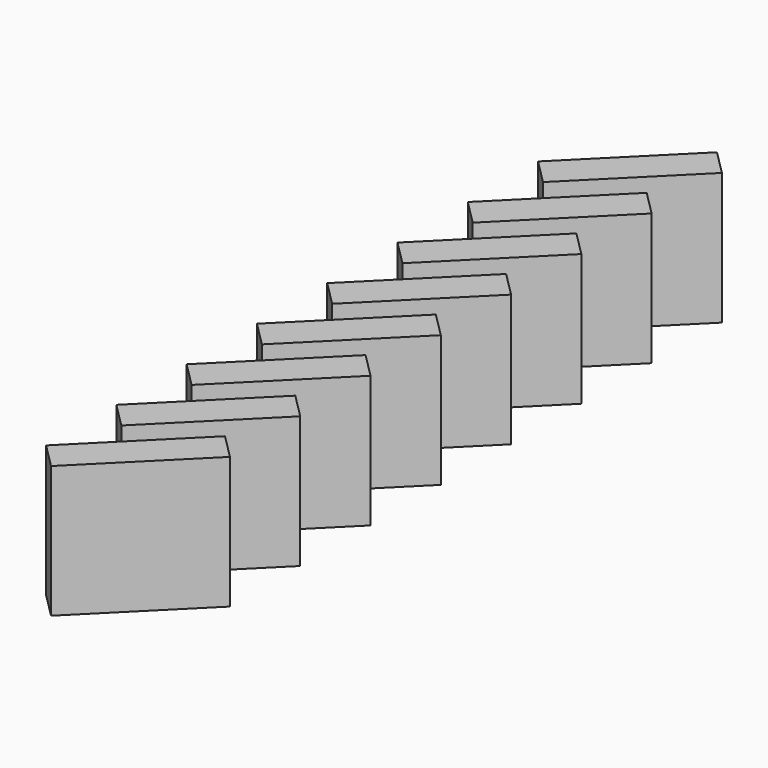
from build123d import *

# Parameters (mm, degrees)
BOX071_W               = 16
BOX071_H               = 4
BOX071_DEPTH           = 15
BOX071_PLACEMENT_ANGLE = 45
BOX072_W               = 16
BOX072_H               = 4
BOX072_DEPTH           = 15
BOX072_PLACEMENT_ANGLE = 45
BOX073_W               = 16
BOX073_H               = 4
BOX073_DEPTH           = 15
BOX073_PLACEMENT_ANGLE = 45
BOX074_W               = 16
BOX074_H               = 4
BOX074_DEPTH           = 15
BOX074_PLACEMENT_ANGLE = 45
BOX075_W               = 16
BOX075_H               = 4
BOX075_DEPTH           = 15
BOX075_PLACEMENT_ANGLE = 45
BOX076_W               = 16
BOX076_H               = 4
BOX076_DEPTH           = 15
BOX076_PLACEMENT_ANGLE = 45
BOX077_W               = 16
BOX077_H               = 4
BOX077_DEPTH           = 15
BOX077_PLACEMENT_ANGLE = 45
BOX070_W               = 16
BOX070_H               = 4
BOX070_DEPTH           = 15
BOX070_PLACEMENT_ANGLE = 45


with BuildPart() as ventcut001:
    # Box071 → Box071 (new body)
    with BuildSketch(Plane.XY):
        with Locations((8, 2)):
            Rectangle(BOX071_W, BOX071_H)
    extrude(amount=BOX071_DEPTH)


with BuildPart() as ventcut001_1:
    # Box071 placement: moved
    add(ventcut001.part.moved(Location((-4, 36, 0))).rotate(Axis((-4, 36, 0), (0, 0, 1)), BOX071_PLACEMENT_ANGLE))


with BuildPart() as ventcut002:
    # Box072 → Box072 (new body)
    with BuildSketch(Plane.XY):
        with Locations((8, 2)):
            Rectangle(BOX072_W, BOX072_H)
    extrude(amount=BOX072_DEPTH)


with BuildPart() as ventcut002_1:
    # Box072 placement: moved
    add(ventcut002.part.moved(Location((-4, 26, 0))).rotate(Axis((-4, 26, 0), (0, 0, 1)), BOX072_PLACEMENT_ANGLE))


with BuildPart() as ventcut003:
    # Box073 → Box073 (new body)
    with BuildSketch(Plane.XY):
        with Locations((8, 2)):
            Rectangle(BOX073_W, BOX073_H)
    extrude(amount=BOX073_DEPTH)


with BuildPart() as ventcut003_1:
    # Box073 placement: moved
    add(ventcut003.part.moved(Location((-4, 46, 0))).rotate(Axis((-4, 46, 0), (0, 0, 1)), BOX073_PLACEMENT_ANGLE))


with BuildPart() as ventcut004:
    # Box074 → Box074 (new body)
    with BuildSketch(Plane.XY):
        with Locations((8, 2)):
            Rectangle(BOX074_W, BOX074_H)
    extrude(amount=BOX074_DEPTH)


with BuildPart() as ventcut004_1:
    # Box074 placement: moved
    add(ventcut004.part.moved(Location((-4, 56, 0))).rotate(Axis((-4, 56, 0), (0, 0, 1)), BOX074_PLACEMENT_ANGLE))


with BuildPart() as ventcut005:
    # Box075 → Box075 (new body)
    with BuildSketch(Plane.XY):
        with Locations((8, 2)):
            Rectangle(BOX075_W, BOX075_H)
    extrude(amount=BOX075_DEPTH)


with BuildPart() as ventcut005_1:
    # Box075 placement: moved
    add(ventcut005.part.moved(Location((-4, 66, 0))).rotate(Axis((-4, 66, 0), (0, 0, 1)), BOX075_PLACEMENT_ANGLE))


with BuildPart() as ventcut006:
    # Box076 → Box076 (new body)
    with BuildSketch(Plane.XY):
        with Locations((8, 2)):
            Rectangle(BOX076_W, BOX076_H)
    extrude(amount=BOX076_DEPTH)


with BuildPart() as ventcut006_1:
    # Box076 placement: moved
    add(ventcut006.part.moved(Location((-4, 76, 0))).rotate(Axis((-4, 76, 0), (0, 0, 1)), BOX076_PLACEMENT_ANGLE))


with BuildPart() as ventcut007:
    # Box077 → Box077 (new body)
    with BuildSketch(Plane.XY):
        with Locations((8, 2)):
            Rectangle(BOX077_W, BOX077_H)
    extrude(amount=BOX077_DEPTH)


with BuildPart() as ventcut007_1:
    # Box077 placement: moved
    add(ventcut007.part.moved(Location((-4, 86, 0))).rotate(Axis((-4, 86, 0), (0, 0, 1)), BOX077_PLACEMENT_ANGLE))


with BuildPart() as leftvents:
    # Box070 → Box070 (new body)
    with BuildSketch(Plane.XY):
        with Locations((8, 2)):
            Rectangle(BOX070_W, BOX070_H)
    extrude(amount=BOX070_DEPTH)


with BuildPart() as leftvents_1:
    # Box070 placement: moved
    add(leftvents.part.moved(Location((-4, 16, 0))).rotate(Axis((-4, 16, 0), (0, 0, 1)), BOX070_PLACEMENT_ANGLE))

    # Fusion048: union ventCut001, ventCut002, ventCut003, ventCut004, ventCut005, ventCut006, ventCut007
    add(ventcut001_1.part)
    add(ventcut002_1.part)
    add(ventcut003_1.part)
    add(ventcut004_1.part)
    add(ventcut005_1.part)
    add(ventcut006_1.part)
    add(ventcut007_1.part)


with BuildPart() as leftvents_2:
    # Fusion048 placement: moved
    add(leftvents_1.part.moved(Location((0, 0, 4))))


solid = leftvents_2.part
